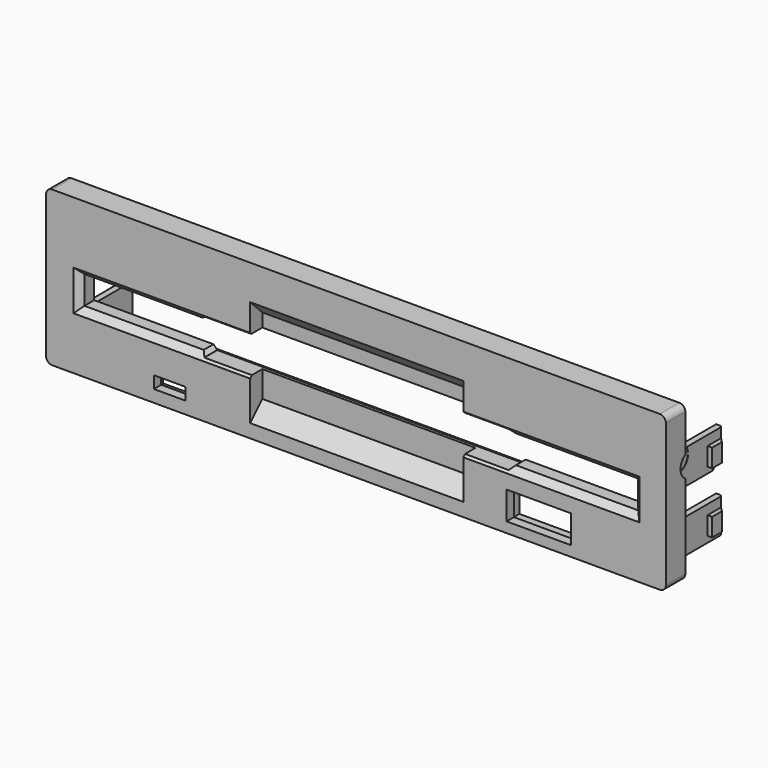
from build123d import *

# Parameters (mm, degrees)
SKETCH_W        = 101.75
SKETCH_H        = 25.4
PAD_DEPTH       = 4
FILLET_R        = 1
FILLET001_R     = 1
FILLET002_R     = 1
FILLET003_R     = 1
SKETCH001_W     = 90.9
SKETCH001_H     = 4.6
POCKET_DEPTH    = 5
CHAMFER_SIZE    = 1
CHAMFER001_SIZE = 1
CHAMFER002_SIZE = 1
CHAMFER003_SIZE = 1
SKETCH002_W     = 5.2
SKETCH002_H     = 2
POCKET001_DEPTH = 5
SKETCH003_W     = 50
SKETCH003_H     = 6
POCKET002_DEPTH = 5
SKETCH004_W     = 10.6
SKETCH004_H     = 4.6
POCKET003_DEPTH = 5
SKETCH005_W     = 35
SKETCH005_H     = 12.5
POCKET004_DEPTH = 2.5
CHAMFER004_SIZE = 2.49
CHAMFER005_SIZE = 0.74
CHAMFER006_SIZE = 0.63
CHAMFER007_SIZE = 0.63
CHAMFER008_SIZE = 0.74
CHAMFER009_SIZE = 2.49
SKETCH006_W     = 1
SKETCH006_H     = 5.6
PAD001_DEPTH    = 10
SKETCH007_W     = 3
SKETCH007_H     = 3
PAD002_DEPTH    = 0.75
CHAMFER010_SIZE = 1
SKETCH008_W     = 1
SKETCH008_H     = 5.6
PAD003_DEPTH    = 10
SKETCH009_W     = 3
SKETCH009_H     = 3
PAD004_DEPTH    = 0.75
CHAMFER011_SIZE = 3
CHAMFER012_SIZE = 1
SKETCH010_W     = 1
SKETCH010_H     = 5.6
PAD005_DEPTH    = 10
SKETCH011_W     = 3
SKETCH011_H     = 3
PAD006_DEPTH    = 0.75
CHAMFER013_SIZE = 1
SKETCH012_W     = 1
SKETCH012_H     = 5.6
PAD007_DEPTH    = 10
SKETCH013_W     = 3
SKETCH013_H     = 3
PAD008_DEPTH    = 0.75
CHAMFER014_SIZE = 2
CHAMFER015_SIZE = 1
SKETCH014_W     = 95.5
SKETCH014_H     = 9.5
POCKET005_DEPTH = 1
SKETCH015_R     = 2
PAD009_DEPTH    = 2
SKETCH016_R     = 1.05
POCKET006_DEPTH = 5
SKETCH017_R     = 2
PAD010_DEPTH    = 2
SKETCH018_R     = 1.05
POCKET007_DEPTH = 5
SKETCH019_R     = 2
POCKET008_DEPTH = 2
SKETCH020_R     = 2
POCKET009_DEPTH = 2
SKETCH022_W     = 8.5
SKETCH022_H     = 0.85
POCKET011_DEPTH = 2.5
SKETCH023_W     = 16
SKETCH023_H     = 6
POCKET012_DEPTH = 2.5
SKETCH024_W     = 12.75
SKETCH024_H     = 6.5
POCKET013_DEPTH = 2.5


with BuildPart() as part:
    # Sketch → Pad (new body)
    with BuildSketch(Plane.XZ):
        with Locations((50.875, 12.7)):
            Rectangle(SKETCH_W, SKETCH_H)
    extrude(amount=PAD_DEPTH)

    # Fillet
    fillet_edges = [part.edges().sort_by_distance(p)[0] for p in [
        (101.75, -2, 0),
    ]]
    fillet(fillet_edges, radius=FILLET_R)

    # Fillet001
    fillet001_edges = [part.edges().sort_by_distance(p)[0] for p in [
        (101.75, -2, 25.4),
    ]]
    fillet(fillet001_edges, radius=FILLET001_R)

    # Fillet002
    fillet002_edges = [part.edges().sort_by_distance(p)[0] for p in [
        (0, -2, 25.4),
    ]]
    fillet(fillet002_edges, radius=FILLET002_R)

    # Fillet003
    fillet003_edges = [part.edges().sort_by_distance(p)[0] for p in [
        (0, -2, 0),
    ]]
    fillet(fillet003_edges, radius=FILLET003_R)

    # Sketch001 (on Face10 of Fillet003) → Pocket (cut)
    with BuildSketch(Plane.XZ.offset(4)):
        with Locations((50.95, 11.95)):
            Rectangle(SKETCH001_W, SKETCH001_H)
    extrude(amount=-POCKET_DEPTH, mode=Mode.SUBTRACT)

    # Chamfer
    chamfer_edges = [part.edges().sort_by_distance(p)[0] for p in [
        (50.95, -4, 14.25),
    ]]
    chamfer(chamfer_edges, length=CHAMFER_SIZE)

    # Chamfer001
    chamfer001_edges = [part.edges().sort_by_distance(p)[0] for p in [
        (5.5, -4, 11.95),
    ]]
    chamfer(chamfer001_edges, length=CHAMFER001_SIZE)

    # Chamfer002
    chamfer002_edges = [part.edges().sort_by_distance(p)[0] for p in [
        (50.45, -4, 9.65),
    ]]
    chamfer(chamfer002_edges, length=CHAMFER002_SIZE)

    # Chamfer003
    chamfer003_edges = [part.edges().sort_by_distance(p)[0] for p in [
        (96.4, -4, 12.45),
    ]]
    chamfer(chamfer003_edges, length=CHAMFER003_SIZE)

    # Sketch002 (on Face6 of Chamfer003) → Pocket001 (cut)
    with BuildSketch(Plane.XZ.offset(4)):
        with Locations((20.3, 3)):
            Rectangle(SKETCH002_W, SKETCH002_H)
    extrude(amount=-POCKET001_DEPTH, mode=Mode.SUBTRACT)

    # Sketch003 (on Face7 of Pocket001) → Pocket002 (cut)
    with BuildSketch(Plane.XZ.offset(4)):
        with Locations((50.7, 12)):
            Rectangle(SKETCH003_W, SKETCH003_H)
    extrude(amount=-POCKET002_DEPTH, mode=Mode.SUBTRACT)

    # Sketch004 (on Face7 of Pocket002) → Pocket003 (cut)
    with BuildSketch(Plane.XZ.offset(4)):
        with Locations((80.9, 4)):
            Rectangle(SKETCH004_W, SKETCH004_H)
    extrude(amount=-POCKET003_DEPTH, mode=Mode.SUBTRACT)

    # Sketch005 (on Face7 of Pocket003) → Pocket004 (cut)
    with BuildSketch(Plane.XZ.offset(4)):
        with Locations((51, 10.95)):
            Rectangle(SKETCH005_W, SKETCH005_H)
    extrude(amount=-POCKET004_DEPTH, mode=Mode.SUBTRACT)

    # Chamfer004
    chamfer004_edges = [part.edges().sort_by_distance(p)[0] for p in [
        (51, -4, 4.7),
    ]]
    chamfer(chamfer004_edges, length=CHAMFER004_SIZE)

    # Chamfer005
    chamfer005_edges = [part.edges().sort_by_distance(p)[0] for p in [
        (25.7, -1.5, 14.25),
    ]]
    chamfer(chamfer005_edges, length=CHAMFER005_SIZE)

    # Chamfer006
    chamfer006_edges = [part.edges().sort_by_distance(p)[0] for p in [
        (25.7, -1.5, 9.65),
    ]]
    chamfer(chamfer006_edges, length=CHAMFER006_SIZE)

    # Chamfer007
    chamfer007_edges = [part.edges().sort_by_distance(p)[0] for p in [
        (75.7, -1.5, 9.65),
    ]]
    chamfer(chamfer007_edges, length=CHAMFER007_SIZE)

    # Chamfer008
    chamfer008_edges = [part.edges().sort_by_distance(p)[0] for p in [
        (75.7, -1.5, 14.25),
    ]]
    chamfer(chamfer008_edges, length=CHAMFER008_SIZE)

    # Chamfer009
    chamfer009_edges = [part.edges().sort_by_distance(p)[0] for p in [
        (51, -4, 17.2),
    ]]
    chamfer(chamfer009_edges, length=CHAMFER009_SIZE)

    # Sketch006 (on Face34 of Chamfer009) → Pad001 (join)
    with BuildSketch(Plane(origin=(0, 0, 0), x_dir=(1, 0, 0), z_dir=(0, 1, 0))):
        with Locations((2.5, -4.3)):
            Rectangle(SKETCH006_W, SKETCH006_H)
    extrude(amount=PAD001_DEPTH)

    # Sketch007 (on Face51 of Pad001) → Pad002 (join)
    with BuildSketch(Plane(origin=(2, 0, 0), x_dir=(0, 0, -1), z_dir=(-1, 0, 0))):
        with Locations((-5, -8.5)):
            Rectangle(SKETCH007_W, SKETCH007_H)
    extrude(amount=PAD002_DEPTH)

    # Chamfer010
    chamfer010_edges = [part.edges().sort_by_distance(p)[0] for p in [
        (1.25, 10, 5),
    ]]
    chamfer(chamfer010_edges, length=CHAMFER010_SIZE)

    # Sketch008 (on Face4 of Chamfer010) → Pad003 (join)
    with BuildSketch(Plane(origin=(0, 0, 0), x_dir=(1, 0, 0), z_dir=(0, 1, 0))):
        with Locations((2.5, -14.8)):
            Rectangle(SKETCH008_W, SKETCH008_H)
    extrude(amount=PAD003_DEPTH)

    # Sketch009 (on Face24 of Pad003) → Pad004 (join)
    with BuildSketch(Plane(origin=(2, 0, 0), x_dir=(0, 0, -1), z_dir=(-1, 0, 0))):
        with Locations((-15, -8.5)):
            Rectangle(SKETCH009_W, SKETCH009_H)
    extrude(amount=PAD004_DEPTH)

    # Chamfer011
    chamfer011_edges = [part.edges().sort_by_distance(p)[0] for p in [
        (2.5, 10, 12),
    ]]
    chamfer(chamfer011_edges, length=CHAMFER011_SIZE)

    # Chamfer012
    chamfer012_edges = [part.edges().sort_by_distance(p)[0] for p in [
        (1.25, 10, 15.75),
    ]]
    chamfer(chamfer012_edges, length=CHAMFER012_SIZE)

    # Sketch010 (on Face7 of Chamfer012) → Pad005 (join)
    with BuildSketch(Plane(origin=(0, 0, 0), x_dir=(1, 0, 0), z_dir=(0, 1, 0))):
        with Locations((99.3, -4.8)):
            Rectangle(SKETCH010_W, SKETCH010_H)
    extrude(amount=PAD005_DEPTH)

    # Sketch011 (on Face35 of Pad005) → Pad006 (join)
    with BuildSketch(Plane(origin=(99.8, 0, 0), x_dir=(0, 0, 1), z_dir=(1, 0, 0))):
        with Locations((4.5, -8.5)):
            Rectangle(SKETCH011_W, SKETCH011_H)
    extrude(amount=PAD006_DEPTH)

    # Chamfer013
    chamfer013_edges = [part.edges().sort_by_distance(p)[0] for p in [
        (100.55, 10, 4.5),
    ]]
    chamfer(chamfer013_edges, length=CHAMFER013_SIZE)

    # Sketch012 (on Face4 of Chamfer013) → Pad007 (join)
    with BuildSketch(Plane(origin=(0, 0, 0), x_dir=(1, 0, 0), z_dir=(0, 1, 0))):
        with Locations((99.3, -14.8)):
            Rectangle(SKETCH012_W, SKETCH012_H)
    extrude(amount=PAD007_DEPTH)

    # Sketch013 (on Face54 of Pad007) → Pad008 (join)
    with BuildSketch(Plane(origin=(99.8, 0, 0), x_dir=(0, 0, 1), z_dir=(1, 0, 0))):
        with Locations((14.5, -8.5)):
            Rectangle(SKETCH013_W, SKETCH013_H)
    extrude(amount=PAD008_DEPTH)

    # Chamfer014
    chamfer014_edges = [part.edges().sort_by_distance(p)[0] for p in [
        (99.3, 10, 12),
    ]]
    chamfer(chamfer014_edges, length=CHAMFER014_SIZE)

    # Chamfer015
    chamfer015_edges = [part.edges().sort_by_distance(p)[0] for p in [
        (100.55, 10, 15),
    ]]
    chamfer(chamfer015_edges, length=CHAMFER015_SIZE)

    # Sketch014 (on Face11 of Chamfer015) → Pocket005 (cut)
    with BuildSketch(Plane(origin=(0, 0, 0), x_dir=(1, 0, 0), z_dir=(0, 1, 0))):
        with Locations((50.75, -13.25)):
            Rectangle(SKETCH014_W, SKETCH014_H)
    extrude(amount=-POCKET005_DEPTH, mode=Mode.SUBTRACT)

    # Sketch015 (on Face7 of Pocket005) → Pad009 (join)
    with BuildSketch(Plane(origin=(99.8, 0, 0), x_dir=(0, 0, 1), z_dir=(1, 0, 0))):
        with Locations((16.5, -1)):
            Circle(SKETCH015_R)
    extrude(amount=-PAD009_DEPTH)

    # Sketch016 (on Face98 of Pad009) → Pocket006 (cut)
    with BuildSketch(Plane(origin=(99.8, 0, 0), x_dir=(0, 0, 1), z_dir=(1, 0, 0))):
        with Locations((16.5, -1)):
            Circle(SKETCH016_R)
    extrude(amount=-POCKET006_DEPTH, mode=Mode.SUBTRACT)

    # Sketch017 (on Face39 of Pocket006) → Pad010 (join)
    with BuildSketch(Plane(origin=(2, 0, 0), x_dir=(0, 0, -1), z_dir=(-1, 0, 0))):
        with Locations((-16.5, -1)):
            Circle(SKETCH017_R)
    extrude(amount=-PAD010_DEPTH)

    # Sketch018 (on Face103 of Pad010) → Pocket007 (cut)
    with BuildSketch(Plane(origin=(2, 0, 0), x_dir=(0, 0, -1), z_dir=(-1, 0, 0))):
        with Locations((-16.5, -1)):
            Circle(SKETCH018_R)
    extrude(amount=-POCKET007_DEPTH, mode=Mode.SUBTRACT)

    # Sketch019 (on Face18 of Pocket007) → Pocket008 (cut)
    with BuildSketch(Plane(origin=(0, 0, 0), x_dir=(0, 0, -1), z_dir=(-1, 0, 0))):
        with Locations((-16.5, -1)):
            Circle(SKETCH019_R)
    extrude(amount=-POCKET008_DEPTH, mode=Mode.SUBTRACT)

    # Sketch020 (on Face29 of Pocket008) → Pocket009 (cut)
    with BuildSketch(Plane(origin=(101.75, 0, 0), x_dir=(0, 0, 1), z_dir=(1, 0, 0))):
        with Locations((16.5, -1)):
            Circle(SKETCH020_R)
    extrude(amount=-POCKET009_DEPTH, mode=Mode.SUBTRACT)

    # Sketch022 → Pocket011 (cut)
    with BuildSketch(Plane(origin=(0, 0, 0), x_dir=(1, 0, 0), z_dir=(0, 1, 0))):
        with Locations((20.25, -1.075)):
            Rectangle(SKETCH022_W, SKETCH022_H)
    extrude(amount=-POCKET011_DEPTH, mode=Mode.SUBTRACT)

    # Sketch023 (on Face10 of Pocket011) → Pocket012 (cut)
    with BuildSketch(Plane(origin=(0, 0, 0), x_dir=(1, 0, 0), z_dir=(0, 1, 0))):
        with Locations((20, -4.5)):
            Rectangle(SKETCH023_W, SKETCH023_H)
    extrude(amount=-POCKET012_DEPTH, mode=Mode.SUBTRACT)

    # Sketch024 (on Face10 of Pocket012) → Pocket013 (cut)
    with BuildSketch(Plane(origin=(0, 0, 0), x_dir=(1, 0, 0), z_dir=(0, 1, 0))):
        with Locations((80.875, -4.05)):
            Rectangle(SKETCH024_W, SKETCH024_H)
    extrude(amount=-POCKET013_DEPTH, mode=Mode.SUBTRACT)


solid = part.part
